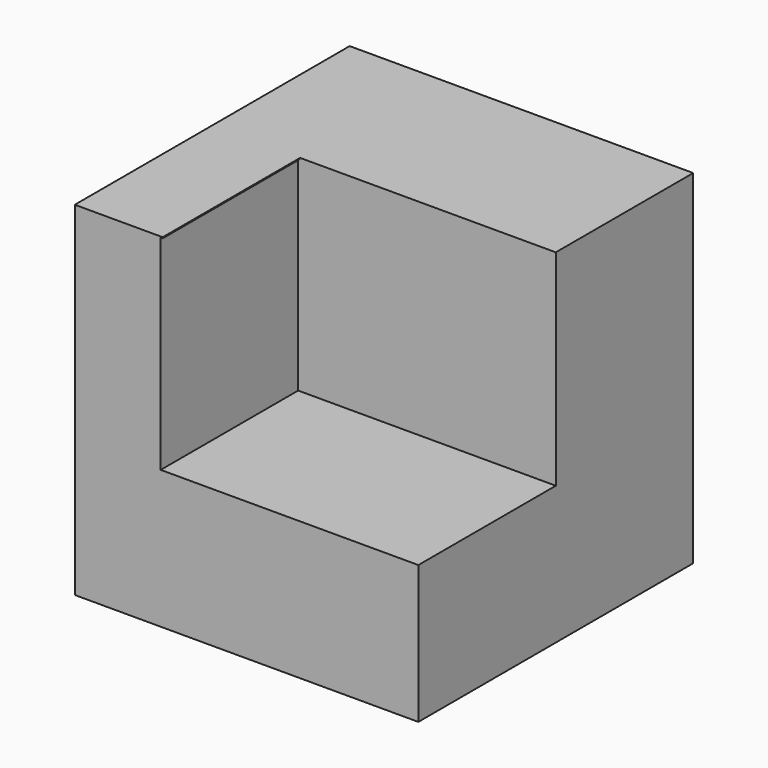
from build123d import *

# Parameters (mm, degrees)
F0_W     = 50.8
F0_H     = 50.8
F1_DEPTH = 50.8
F3_DEPTH = 25.4
F5_DEPTH = 25.4


with BuildPart() as f1:
    # F0 (on Front) → F1 (new body)
    with BuildSketch(Plane.XZ):
        with Locations((-30.37813, -8.567312)):
            Rectangle(F0_W, F0_H)
    extrude(amount=-F1_DEPTH)

    # F2 (on Front) → F3 (cut)
    with BuildSketch(Plane.XZ):
        Polygon((-43.071337, -13.54893), (-4.849092, -13.54893), (-5.134332, 16.686577), (-43.071337, 16.686577), align=None)
    extrude(amount=-F3_DEPTH, mode=Mode.SUBTRACT)

    # F4 (on Front) → F5 (cut)
    with BuildSketch(Plane.XZ):
        Polygon((-4.563851, 16.971819), (-42.786095, 16.971819), (-41.930374, -12.122728), (-4.563851, -12.122728), align=None)
    extrude(amount=-F5_DEPTH, mode=Mode.SUBTRACT)


solid = f1.part
